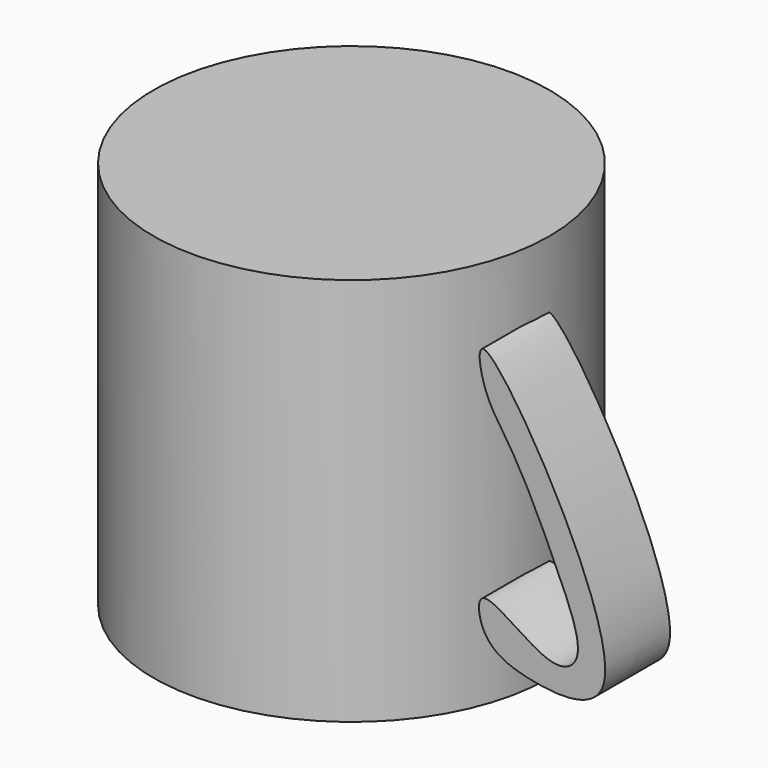
from build123d import *

# Parameters (mm, degrees)
F0_R     = 61.0664695076
F1_DEPTH = 120
F2_R     = 54.5191208314
F3_DEPTH = 119
F5_DEPTH = 25


with BuildPart() as f1:
    # F0 (on Top) → F1 (new body)
    with BuildSketch(Plane.XY):
        Circle(F0_R)
    extrude(amount=F1_DEPTH)

    # F2 (on face) → F3 (cut)
    with BuildSketch(Plane(origin=(0, 0, 0), x_dir=(1, 0, 0), z_dir=(0, 0, -1))):
        Circle(F2_R)
    extrude(amount=-F3_DEPTH, mode=Mode.SUBTRACT)

    # F4 (on Front) → F5 (join)
    with BuildSketch(Plane.XZ):
        with BuildLine():
            add(Edge.make_bspline(
                [(60.9540753067, 22.753989324), (63.5270362442, 17.9072820245), (74.5876967588, 13.0445498577), (118.8166428086, 10.7091734666), (56.3598857532, 117.0218614551), (60.5600900247, 86.4345628033), (70.3703764351, 75.19630034), (83.94520842, 46.3083730277), (92.9993183363, 24.6461115443), (80.9101403901, 17.4580666818), (57.736215368, 38.7928055161), (59.1032510908, 26.2404018482), (60.9540753067, 22.753989324)],
                knots=[0, 0, 0, 0, 0.0894592502, 0.1927301216, 0.3917489591, 0.4584030931, 0.5478623528, 0.6708554205, 0.7688366425, 0.8326356808, 0.9356487135, 1, 1, 1, 1], degree=3))
        make_face()
    extrude(amount=F5_DEPTH)


solid = f1.part
